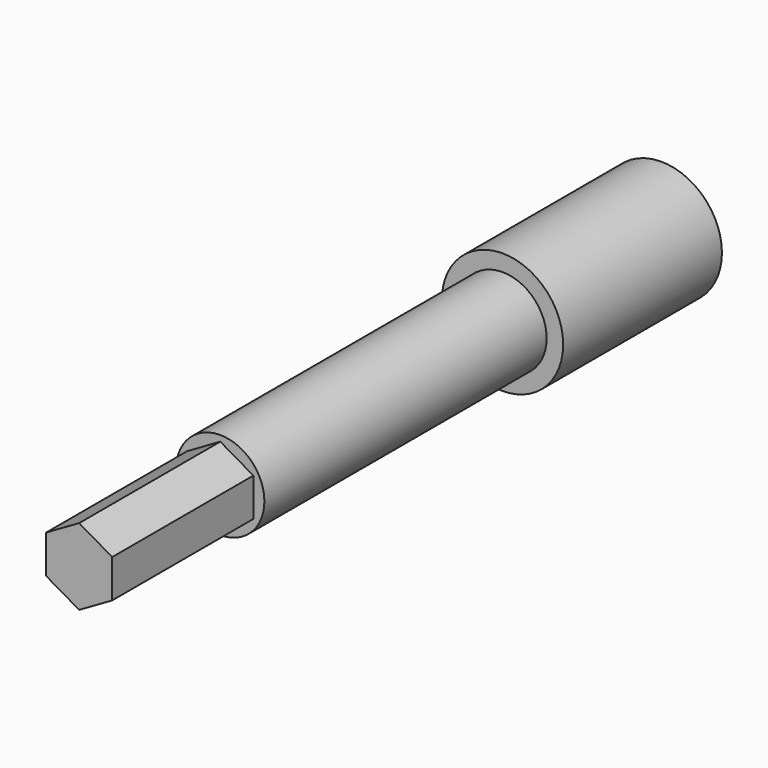
from build123d import *

# Parameters (mm, degrees)
F0_R     = 4.365625
F1_DEPTH = 14.2875
F2_R     = 3.175
F3_DEPTH = 38.1
F4_R     = 3.175
F5_DEPTH = 12.7


with BuildPart() as f1:
    # F0 (on Front) → F1 (new body)
    with BuildSketch(Plane.XZ):
        Circle(F0_R)
    extrude(amount=F1_DEPTH)

    # F2 (on face) → F3 (join)
    with BuildSketch(Plane.XZ.offset(14.2875)):
        Circle(F2_R)
    extrude(amount=F3_DEPTH)

    # F4 (on face) → F5 (cut)
    with BuildSketch(Plane.XZ.offset(52.3875)):
        Circle(F4_R)
        Polygon((0, -2.749631), (-2.38125, -1.374815), (-2.38125, 1.374815), (0, 2.749631), (2.38125, 1.374815), (2.38125, -1.374815), align=None, mode=Mode.SUBTRACT)
    extrude(amount=-F5_DEPTH, mode=Mode.SUBTRACT)


solid = f1.part
